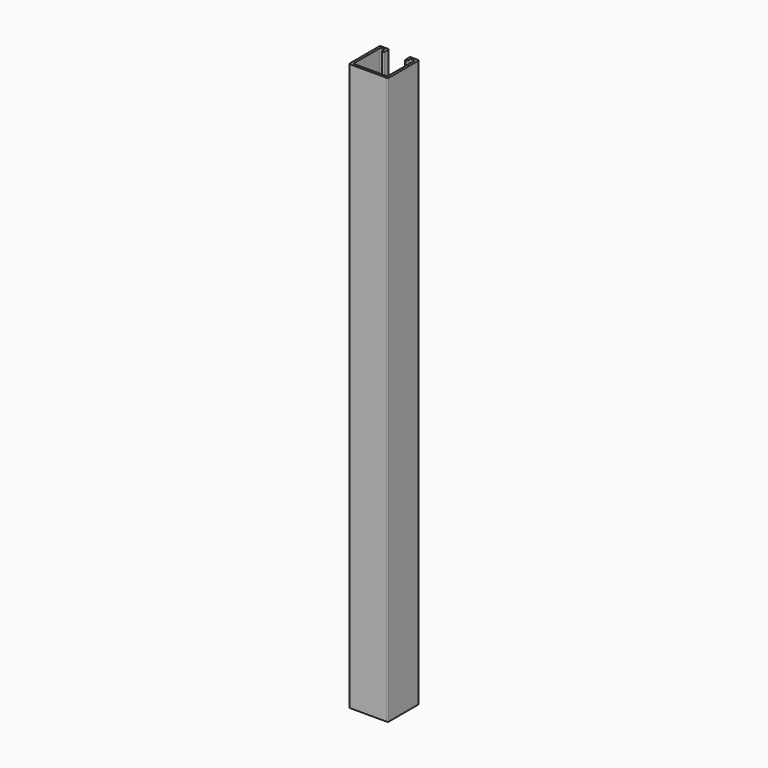
from build123d import *

# Parameters (mm, degrees)
F1_DEPTH = 600
F2_R     = 1


with BuildPart() as f1:
    # F0 (on Top) → F1 (new body)
    with BuildSketch(Plane.XY):
        Polygon((-13.6, 11.700096), (-11.1, 11.700096), (-11.1, 18.800096), (-20.65, 18.800096), (-20.65, -22.499904), (20.65, -22.499904), (20.65, 18.800096), (11.1, 18.800096), (11.1, 11.700096), (13.6, 11.700096), (13.6, 16.300096), (18.15, 16.300096), (18.15, -19.999904), (-18.15, -19.999904), (-18.15, 16.300096), (-13.6, 16.300096), align=None)
    extrude(amount=F1_DEPTH)

    # F2
    f2_edges = [f1.edges().sort_by_distance(p)[0] for p in [
        (-20.65, 18.800096, 300),
        (11.1, 18.800096, 300),
        (20.65, 18.800096, 300),
        (-11.1, 18.800096, 300),
        (-20.65, -22.499904, 300),
        (18.15, -19.999904, 300),
        (-18.15, 16.300096, 300),
        (-11.1, 11.700096, 300),
        (-13.6, 16.300096, 300),
        (-13.6, 11.700096, 300),
        (-18.15, -19.999904, 300),
        (20.65, -22.499904, 300),
        (13.6, 11.700096, 300),
        (11.1, 11.700096, 300),
        (13.6, 16.300096, 300),
        (18.15, 16.300096, 300),
    ]]
    fillet(f2_edges, radius=F2_R)


solid = f1.part
